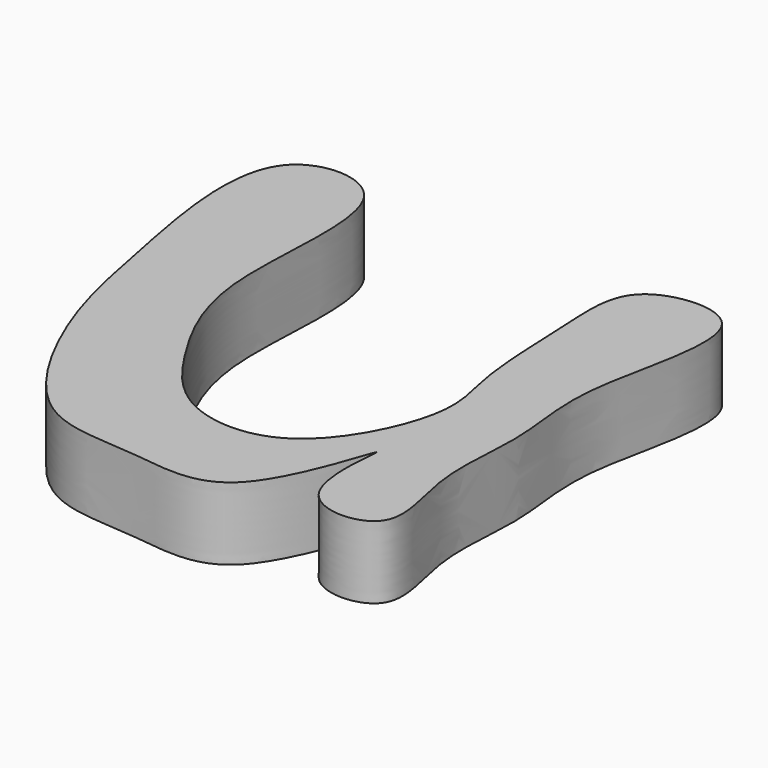
from build123d import *

# Parameters (mm, degrees)
F1_DEPTH = 5


with BuildPart() as f1:
    # F0 (on Top) → F1 (new body)
    with BuildSketch(Plane.XY):
        with BuildLine():
            add(Edge.make_bspline(
                [(-31.7350588739, 13.3125884458), (-31.6269595105, 13.2412645156), (-33.0199775589, 6.0166668532), (-24.6992350065, 6.1578194087), (-27.6343947264, 13.1131575937), (-26.4131187853, 19.6985751883), (-28.1668540995, 25.9745590043), (-23.8044406242, 38.3744306956), (-33.5522444054, 37.5970193667), (-32.9814993463, 31.1575416316), (-32.8740961572, 23.6713917379), (-31.115384592, 19.3860675871), (-35.3887430961, 10.2014853378), (-43.3650361891, 10.6087952997), (-47.3637287173, 16.1529179342), (-51.3210082292, 23.7029747823), (-48.3220413568, 37.9354489941), (-59.2796902556, 37.9721361601), (-56.2624167733, 23.1818492054), (-54.7980293336, 15.1270230506), (-49.1797079628, 4.8960076305), (-42.0450775934, 5.3614389606), (-34.4038616393, 3.3930557478), (-31.8638993282, 13.3975973421), (-31.7350588739, 13.3125884458)],
                knots=[0, 0, 0, 0, 0.0400361999, 0.0761006885, 0.116069244, 0.1596538242, 0.2041179767, 0.2578898271, 0.296873054, 0.3362404068, 0.3824247092, 0.4184891982, 0.4679910234, 0.510713534, 0.5528309801, 0.6028251884, 0.6614152016, 0.7003984352, 0.7595194354, 0.8119215333, 0.8652611443, 0.9084211559, 0.95228203, 1, 1, 1, 1], degree=3))
        make_face()
    extrude(amount=F1_DEPTH)


solid = f1.part
